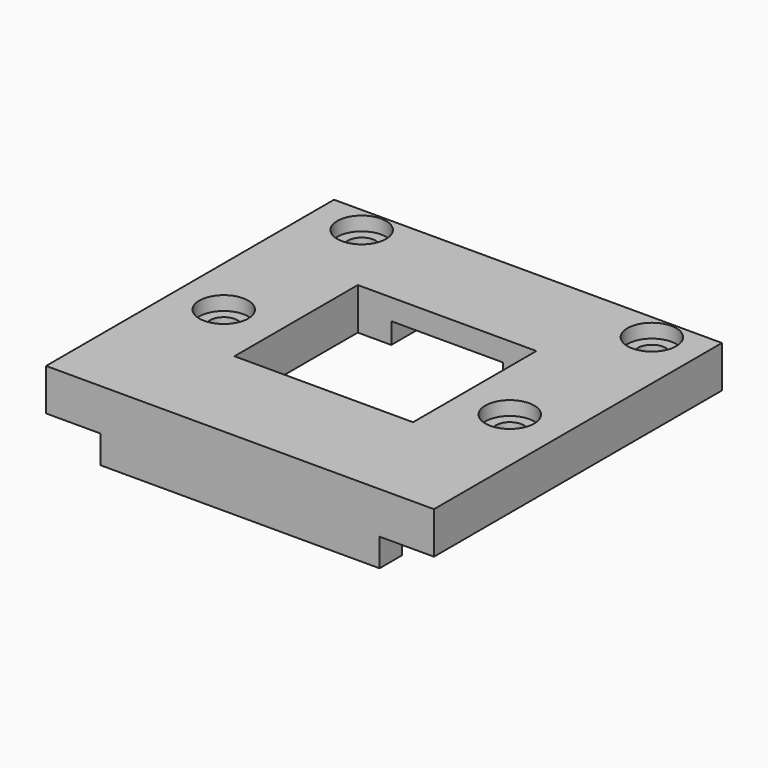
from build123d import *

# Parameters (mm, degrees)
SKETCH_W        = 27.8
SKETCH_H        = 25.8
SKETCH_R        = 1
SKETCH_W_2      = 12.8
SKETCH_H_2      = 11.05
PAD_DEPTH       = 3
SKETCH002_W     = 20
SKETCH002_H     = 2
PAD001_DEPTH    = 2
SKETCH003_R     = 1.5
SKETCH003_R_2   = 1
PAD002_DEPTH    = 0.5
SKETCH005_R     = 1.75
POCKET_DEPTH    = 1
SKETCH006_W     = 8
SKETCH006_H     = 7.25
POCKET001_DEPTH = 1.5


with BuildPart() as part:
    # Sketch → Pad (new body)
    with BuildSketch(Plane.XY):
        with Locations((13.9, 12.9)):
            Rectangle(SKETCH_W, SKETCH_H)
        with Locations((3.5, 23.9)):
            Circle(SKETCH_R, mode=Mode.SUBTRACT)
        with Locations((24.3, 23.9)):
            Circle(SKETCH_R, mode=Mode.SUBTRACT)
        with Locations((23.95, 11.61)):
            Circle(SKETCH_R, mode=Mode.SUBTRACT)
        with Locations((3.5, 11.545)):
            Circle(SKETCH_R, mode=Mode.SUBTRACT)
        with Locations((13.9, 13.025)):
            Rectangle(SKETCH_W_2, SKETCH_H_2, mode=Mode.SUBTRACT)
    extrude(amount=PAD_DEPTH)

    # Sketch002 → Pad001 (join)
    with BuildSketch(Plane.XY):
        with Locations((13.9, 1)):
            Rectangle(SKETCH002_W, SKETCH002_H)
    extrude(amount=-PAD001_DEPTH)

    # Sketch003 (on Face13 of Pad) → Pad002 (join)
    with BuildSketch(Plane(origin=(0, 0, 0), x_dir=(1, 0, 0), z_dir=(0, 0, -1))):
        with Locations((24.3, -23.9)):
            Circle(SKETCH003_R)
        with Locations((24.3, -23.9)):
            Circle(SKETCH003_R_2, mode=Mode.SUBTRACT)
        with Locations((3.5, -23.9)):
            Circle(SKETCH003_R)
        with Locations((3.5, -23.9)):
            Circle(SKETCH003_R_2, mode=Mode.SUBTRACT)
        with Locations((23.95, -11.61)):
            Circle(SKETCH003_R)
        with Locations((23.95, -11.61)):
            Circle(SKETCH003_R_2, mode=Mode.SUBTRACT)
        with Locations((3.5, -11.545)):
            Circle(SKETCH003_R)
        with Locations((3.5, -11.545)):
            Circle(SKETCH003_R_2, mode=Mode.SUBTRACT)
    extrude(amount=PAD002_DEPTH)

    # Sketch005 (on Face6 of Pad002) → Pocket (cut)
    with BuildSketch(Plane.XY.offset(3)):
        with Locations((23.95, 11.61)):
            Circle(SKETCH005_R)
        with Locations((3.5, 11.545)):
            Circle(SKETCH005_R)
        with Locations((3.5, 23.9)):
            Circle(SKETCH005_R)
        with Locations((24.3, 23.9)):
            Circle(SKETCH005_R)
    extrude(amount=-POCKET_DEPTH, mode=Mode.SUBTRACT)

    # Sketch006 (on Face4 of Pad001) → Pocket001 (cut)
    with BuildSketch(Plane(origin=(0, 0, 0), x_dir=(1, 0, 0), z_dir=(0, 0, -1))):
        with Locations((13.9, -22.175)):
            Rectangle(SKETCH006_W, SKETCH006_H)
    extrude(amount=-POCKET001_DEPTH, mode=Mode.SUBTRACT)


solid = part.part
